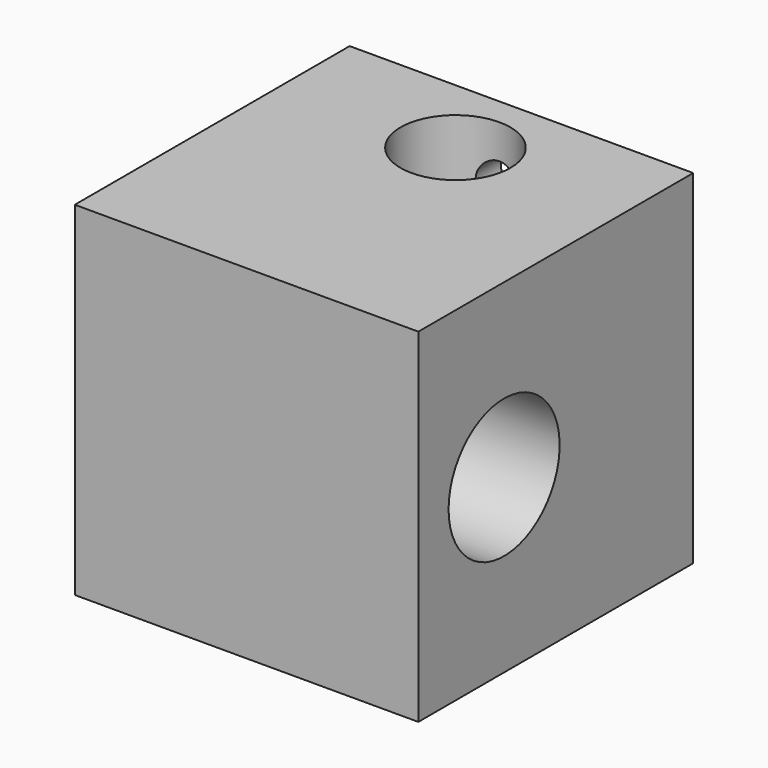
from build123d import *

# Parameters (mm, degrees)
F0_W     = 25
F0_H     = 25
F1_DEPTH = 25
F2_R     = 4
F3_DEPTH = 12.5
F4_R     = 1.5
F5_DEPTH = 6
F6_R     = 1.5
F7_DEPTH = 5
F8_R     = 5.05
F9_DEPTH = 25.001


with BuildPart() as f1:
    # F0 (on Top) → F1 (new body)
    with BuildSketch(Plane.XY):
        with Locations((12.5, 12.5)):
            Rectangle(F0_W, F0_H)
    extrude(amount=F1_DEPTH)

    # F2 (on face) → F3 (cut)
    with BuildSketch(Plane.XY.offset(25)):
        with Locations((12.5, 19)):
            Circle(F2_R)
    extrude(amount=-F3_DEPTH, mode=Mode.SUBTRACT)

    # F4 (on face) → F5 (cut)
    with BuildSketch(Plane(origin=(0, 25, 0), x_dir=(-1, 0, 0), z_dir=(0, 1, 0))):
        with Locations((-12.5, 21)):
            Circle(F4_R)
    extrude(amount=-F5_DEPTH, mode=Mode.SUBTRACT)

    # F6 (on face) → F7 (cut)
    with BuildSketch(Plane(origin=(0, 0, 0), x_dir=(0, -1, 0), z_dir=(-1, 0, 0))):
        with Locations((-2.8, 7.5)):
            Circle(F6_R)
        with Locations((-2.8, 17.5)):
            Circle(F6_R)
        with Locations((-12.8, 7.5)):
            Circle(F6_R)
        with Locations((-12.8, 17.5)):
            Circle(F6_R)
    extrude(amount=-F7_DEPTH, mode=Mode.SUBTRACT)

    # F8 (on face) → F9 (cut, through all)
    with BuildSketch(Plane(origin=(0, 0, 0), x_dir=(0, -1, 0), z_dir=(-1, 0, 0))):
        with Locations((-7.8, 12.5)):
            Circle(F8_R)
    extrude(amount=-F9_DEPTH, mode=Mode.SUBTRACT)


solid = f1.part
